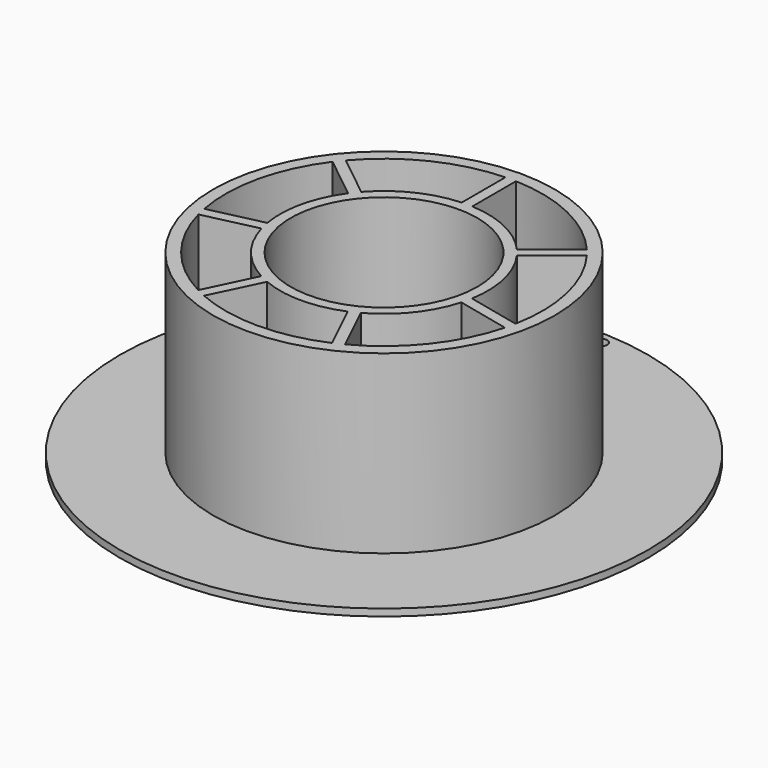
from build123d import *

# Parameters (mm, degrees)
F0_R     = 75
F0_R_2   = 26.5
F1_DEPTH = 2
F2_R     = 48.5
F2_R_2   = 26.5
F3_DEPTH = 50
F4_R     = 1.75
F5_DEPTH = 2.001


with BuildPart() as f1:
    # F0 (on Top) → F1 (new body)
    with BuildSketch(Plane.XY):
        Circle(F0_R)
        with BuildLine():
            Line((-43.513595, -11.470269), (-28.389388, -8.018268))
            ThreePointArc((-28.389388, -8.018268), (-23.064029, -18.392949), (-14.134466, -25.893375))
            Line((-14.134466, -25.893375), (-20.865371, -39.870243))
            ThreePointArc((-20.865371, -39.870243), (-35.182417, -28.057041), (-43.513595, -11.470269))
        make_face(mode=Mode.SUBTRACT)
        with BuildLine():
            Line((-18.162465, -41.171894), (-11.43156, -27.195026))
            ThreePointArc((-11.43156, -27.195026), (0, -29.5), (11.43156, -27.195026))
            Line((11.43156, -27.195026), (18.162465, -41.171894))
            ThreePointArc((18.162465, -41.171894), (0, -45), (-18.162465, -41.171894))
        make_face(mode=Mode.SUBTRACT)
        with BuildLine():
            Line((20.865371, -39.870243), (14.134466, -25.893375))
            ThreePointArc((14.134466, -25.893375), (23.064029, -18.392949), (28.389388, -8.018268))
            Line((28.389388, -8.018268), (43.513595, -11.470269))
            ThreePointArc((43.513595, -11.470269), (35.182417, -28.057041), (20.865371, -39.870243))
        make_face(mode=Mode.SUBTRACT)
        with BuildLine():
            Line((-36.0981, 26.868702), (-23.969429, 17.196409))
            ThreePointArc((-23.969429, 17.196409), (-28.760373, 6.564368), (-29.056951, -5.093484))
            Line((-29.056951, -5.093484), (-44.181157, -8.545486))
            ThreePointArc((-44.181157, -8.545486), (-43.871756, 10.013442), (-36.0981, 26.868702))
        make_face(mode=Mode.SUBTRACT)
        with BuildLine():
            Line((-1.5, 44.974993), (-1.5, 29.46184))
            ThreePointArc((-1.5, 29.46184), (-12.79957, 26.578582), (-22.098959, 19.541904))
            Line((-22.098959, 19.541904), (-34.227631, 29.214197))
            ThreePointArc((-34.227631, 29.214197), (-19.524768, 40.543599), (-1.5, 44.974993))
        make_face(mode=Mode.SUBTRACT)
        Circle(F0_R_2, mode=Mode.SUBTRACT)
        with BuildLine():
            Line((44.181157, -8.545486), (29.056951, -5.093484))
            ThreePointArc((29.056951, -5.093484), (28.760373, 6.564368), (23.969429, 17.196409))
            Line((23.969429, 17.196409), (36.0981, 26.868702))
            ThreePointArc((36.0981, 26.868702), (43.871756, 10.013442), (44.181157, -8.545486))
        make_face(mode=Mode.SUBTRACT)
        with BuildLine():
            ThreePointArc((22.098959, 19.541904), (12.79957, 26.578582), (1.5, 29.46184))
            Line((1.5, 29.46184), (1.5, 44.974993))
            ThreePointArc((1.5, 44.974993), (19.524768, 40.543599), (34.227631, 29.214197))
            Line((34.227631, 29.214197), (22.098959, 19.541904))
        make_face(mode=Mode.SUBTRACT)
    extrude(amount=F1_DEPTH)

    # F2 (on face) → F3 (join)
    with BuildSketch(Plane.XY.offset(2)):
        Circle(F2_R)
        with BuildLine():
            Line((-14.134466, -25.893375), (-20.865371, -39.870243))
            ThreePointArc((-20.865371, -39.870243), (-35.182417, -28.057041), (-43.513595, -11.470269))
            Line((-43.513595, -11.470269), (-28.389388, -8.018268))
            ThreePointArc((-28.389388, -8.018268), (-23.064029, -18.392949), (-14.134466, -25.893375))
        make_face(mode=Mode.SUBTRACT)
        with BuildLine():
            ThreePointArc((18.162465, -41.171894), (0, -45), (-18.162465, -41.171894))
            Line((-18.162465, -41.171894), (-11.43156, -27.195026))
            ThreePointArc((-11.43156, -27.195026), (0, -29.5), (11.43156, -27.195026))
            Line((11.43156, -27.195026), (18.162465, -41.171894))
        make_face(mode=Mode.SUBTRACT)
        with BuildLine():
            ThreePointArc((43.513595, -11.470269), (35.182417, -28.057041), (20.865371, -39.870243))
            Line((20.865371, -39.870243), (14.134466, -25.893375))
            ThreePointArc((14.134466, -25.893375), (23.064029, -18.392949), (28.389388, -8.018268))
            Line((28.389388, -8.018268), (43.513595, -11.470269))
        make_face(mode=Mode.SUBTRACT)
        with BuildLine():
            Line((-29.056951, -5.093484), (-44.181157, -8.545486))
            ThreePointArc((-44.181157, -8.545486), (-43.871756, 10.013442), (-36.0981, 26.868702))
            Line((-36.0981, 26.868702), (-23.969429, 17.196409))
            ThreePointArc((-23.969429, 17.196409), (-28.760373, 6.564368), (-29.056951, -5.093484))
        make_face(mode=Mode.SUBTRACT)
        with BuildLine():
            Line((-22.098959, 19.541904), (-34.227631, 29.214197))
            ThreePointArc((-34.227631, 29.214197), (-19.524768, 40.543599), (-1.5, 44.974993))
            Line((-1.5, 44.974993), (-1.5, 29.46184))
            ThreePointArc((-1.5, 29.46184), (-12.79957, 26.578582), (-22.098959, 19.541904))
        make_face(mode=Mode.SUBTRACT)
        Circle(F2_R_2, mode=Mode.SUBTRACT)
        with BuildLine():
            ThreePointArc((36.0981, 26.868702), (43.871756, 10.013442), (44.181157, -8.545486))
            Line((44.181157, -8.545486), (29.056951, -5.093484))
            ThreePointArc((29.056951, -5.093484), (28.760373, 6.564368), (23.969429, 17.196409))
            Line((23.969429, 17.196409), (36.0981, 26.868702))
        make_face(mode=Mode.SUBTRACT)
        with BuildLine():
            Line((1.5, 29.46184), (1.5, 44.974993))
            ThreePointArc((1.5, 44.974993), (19.524768, 40.543599), (34.227631, 29.214197))
            Line((34.227631, 29.214197), (22.098959, 19.541904))
            ThreePointArc((22.098959, 19.541904), (12.79957, 26.578582), (1.5, 29.46184))
        make_face(mode=Mode.SUBTRACT)
    extrude(amount=F3_DEPTH)

    # F4 (on face) → F5 (cut, through all)
    with BuildSketch(Plane.XY.offset(2)):
        with Locations((-4.894284, 71.231538)):
            Circle(F4_R)
        with Locations((4.654726, 71.307522)):
            Circle(F4_R)
    extrude(amount=-F5_DEPTH, mode=Mode.SUBTRACT)


solid = f1.part
